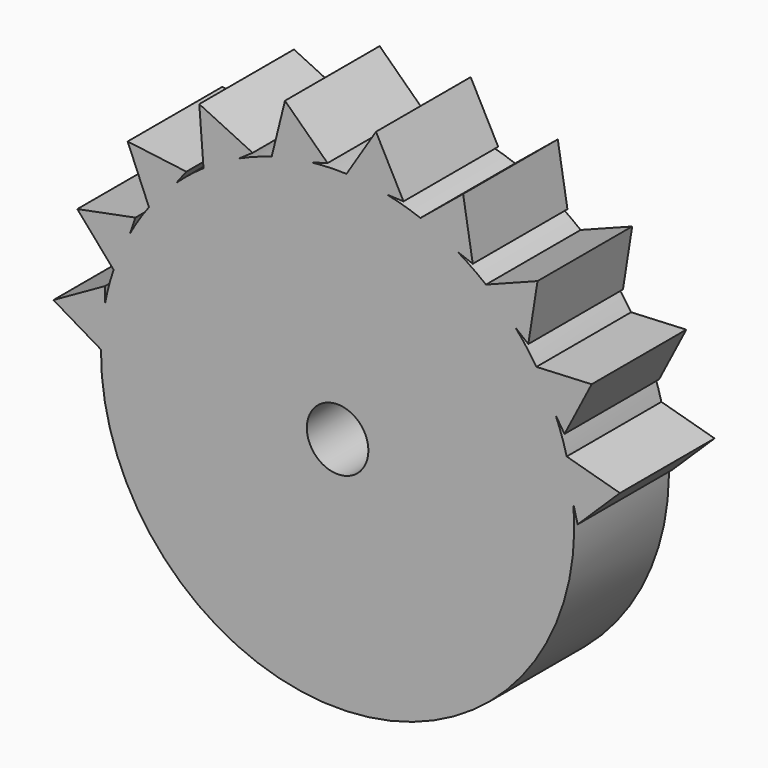
from build123d import *

# Parameters (mm, degrees)
F0_R     = 25.4
F1_DEPTH = 12.7
F3_DEPTH = 12.7
F4_R     = 3.302
F5_DEPTH = 12.7


with BuildPart() as f1:
    # F0 (on Front) → F1 (new body)
    with BuildSketch(Plane.XZ):
        Circle(F0_R)
    extrude(amount=F1_DEPTH)

    # F2 (on Front) → F3 (join)
    with BuildSketch(Plane.XZ):
        Polygon((-21.703257, 13.880826), (-27.935632, 12.664274), (-23.76588, 7.875155), align=None)
        Polygon((-30.501175, 3.234462), (-25.036675, 0), (-24.967798, 6.349626), align=None)
        Polygon((-16.235516, 20.002918), (-22.534213, 20.808476), (-20.082498, 14.950866), align=None)
        Polygon((-9.119631, 24.094419), (-14.845239, 26.840311), (-14.360447, 20.508844), align=None)
        Polygon((-1.07797, 25.739982), (-5.649254, 30.14746), (-7.180599, 23.984872), align=None)
        Polygon((7.073122, 24.772559), (4.120212, 30.394198), (0.728185, 25.026084), align=None)
        Polygon((14.506187, 21.290356), (13.471417, 27.555477), (8.563047, 23.526779), align=None)
        Polygon((20.466661, 15.646868), (21.455074, 21.919471), (15.528635, 19.63916), align=None)
        Polygon((24.349468, 8.414994), (27.260726, 14.058315), (20.917837, 13.757878), align=None)
        Polygon((25.760446, 0.328874), (30.299013, 4.770034), (24.183571, 6.479968), align=None)
    extrude(amount=F3_DEPTH)

    # F4 (on face) → F5 (cut)
    with BuildSketch(Plane.XZ.offset(12.7)):
        Circle(F4_R)
    extrude(amount=-F5_DEPTH, mode=Mode.SUBTRACT)


solid = f1.part
